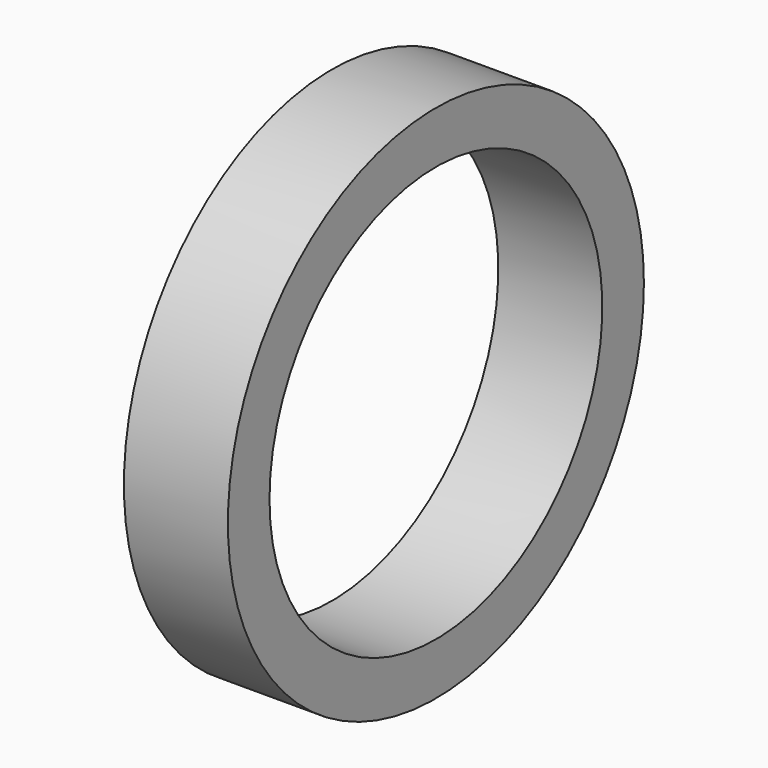
from build123d import *

# Parameters (mm, degrees)
F0_R     = 31.75
F1_DEPTH = 12.7
F3_D     = 50.8


with BuildPart() as f1:
    # F0 (on Right) → F1 (new body)
    with BuildSketch(Plane.YZ):
        with Locations((-2.292947, 0.768908)):
            Circle(F0_R)
    extrude(amount=F1_DEPTH)

    # F3 (through all)
    with Locations(Plane.YZ.offset(12.7)):
        with Locations((-2.292947, 0.768908)):
            Hole(F3_D / 2)


solid = f1.part
